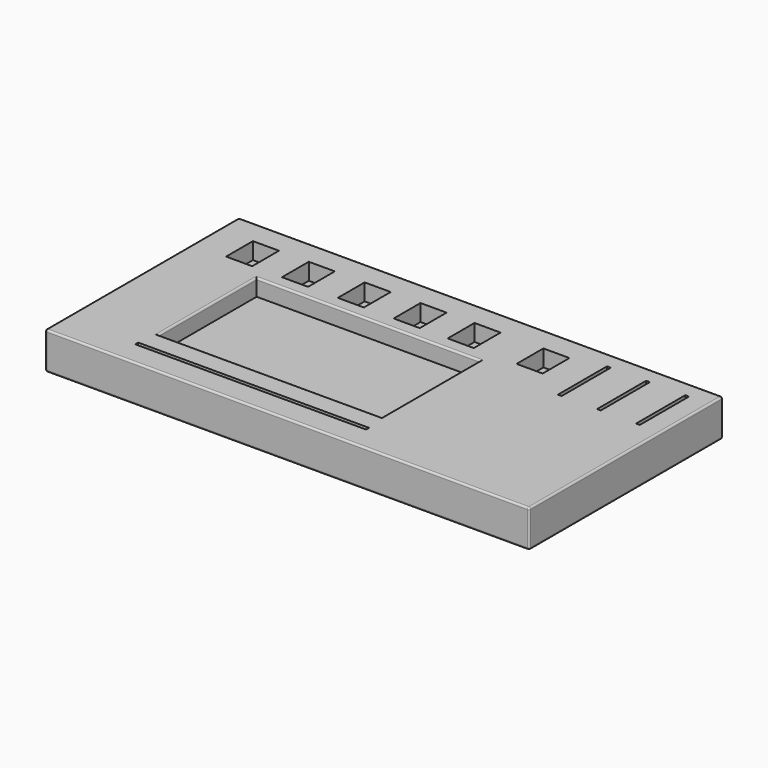
from build123d import *

# Parameters (mm, degrees)
BOX013_W               = 120
BOX013_H               = 66
BOX013_DEPTH           = 10
BOX002_W               = 14
BOX002_H               = 18
BOX002_DEPTH           = 10
BOX003_W               = 14
BOX003_H               = 18
BOX003_DEPTH           = 10
BOX004_W               = 14
BOX004_H               = 18
BOX004_DEPTH           = 10
BOX005_W               = 14
BOX005_H               = 18
BOX005_DEPTH           = 10
BOX006_W               = 33
BOX006_H               = 2
BOX006_DEPTH           = 10
BOX006_PLACEMENT_ANGLE = 90
BOX009_W               = 33
BOX009_H               = 2
BOX009_DEPTH           = 10
BOX009_PLACEMENT_ANGLE = 90
BOX010_W               = 33
BOX010_H               = 2
BOX010_DEPTH           = 10
BOX010_PLACEMENT_ANGLE = 90
BOX015_W               = 14
BOX015_H               = 18
BOX015_DEPTH           = 10
BOX022_W               = 14
BOX022_H               = 18
BOX022_DEPTH           = 10
BOX001_W               = 124
BOX001_H               = 2
BOX001_DEPTH           = 10
BOX_W                  = 260
BOX_H                  = 130
BOX_DEPTH              = 20
FILLET004_R            = 1
FILLET_R               = 1


with BuildPart() as cube003:
    # Box013 → Box013 (new body)
    with BuildSketch(Plane(origin=(-60, -48, -9), x_dir=(1, 0, 0), z_dir=(0, 0, 1))):
        with Locations((60, 33)):
            Rectangle(BOX013_W, BOX013_H)
    extrude(amount=BOX013_DEPTH)


with BuildPart() as obj1:
    # Box002 → Box002 (new body)
    with BuildSketch(Plane(origin=(8, 25, -9), x_dir=(1, 0, 0), z_dir=(0, 0, 1))):
        with Locations((7, 9)):
            Rectangle(BOX002_W, BOX002_H)
    extrude(amount=BOX002_DEPTH)


with BuildPart() as obj2:
    # Box003 → Box003 (new body)
    with BuildSketch(Plane(origin=(-22, 25, -9), x_dir=(1, 0, 0), z_dir=(0, 0, 1))):
        with Locations((7, 9)):
            Rectangle(BOX003_W, BOX003_H)
    extrude(amount=BOX003_DEPTH)


with BuildPart() as obj3:
    # Box004 → Box004 (new body)
    with BuildSketch(Plane(origin=(-52, 25, -9), x_dir=(1, 0, 0), z_dir=(0, 0, 1))):
        with Locations((7, 9)):
            Rectangle(BOX004_W, BOX004_H)
    extrude(amount=BOX004_DEPTH)


with BuildPart() as obj4:
    # Box005 → Box005 (new body)
    with BuildSketch(Plane(origin=(-82, 25, -9), x_dir=(1, 0, 0), z_dir=(0, 0, 1))):
        with Locations((7, 9)):
            Rectangle(BOX005_W, BOX005_H)
    extrude(amount=BOX005_DEPTH)


with BuildPart() as obj5:
    # Box006 → Box006 (new body)
    with BuildSketch(Plane.XY):
        with Locations((16.5, 1)):
            Rectangle(BOX006_W, BOX006_H)
    extrude(amount=BOX006_DEPTH)


with BuildPart() as obj5_1:
    # Box006 placement: moved
    add(obj5.part.moved(Location((107, 14, -9))).rotate(Axis((107, 14, -9), (0, 0, 1)), BOX006_PLACEMENT_ANGLE))


with BuildPart() as obj6:
    # Box009 → Box009 (new body)
    with BuildSketch(Plane.XY):
        with Locations((16.5, 1)):
            Rectangle(BOX009_W, BOX009_H)
    extrude(amount=BOX009_DEPTH)


with BuildPart() as obj6_1:
    # Box009 placement: moved
    add(obj6.part.moved(Location((128, 14, -9))).rotate(Axis((128, 14, -9), (0, 0, 1)), BOX009_PLACEMENT_ANGLE))


with BuildPart() as obj7:
    # Box010 → Box010 (new body)
    with BuildSketch(Plane.XY):
        with Locations((16.5, 1)):
            Rectangle(BOX010_W, BOX010_H)
    extrude(amount=BOX010_DEPTH)


with BuildPart() as obj7_1:
    # Box010 placement: moved
    add(obj7.part.moved(Location((149, 14, -9))).rotate(Axis((149, 14, -9), (0, 0, 1)), BOX010_PLACEMENT_ANGLE))


with BuildPart() as obj8:
    # Box015 → Box015 (new body)
    with BuildSketch(Plane(origin=(74, 25, -9), x_dir=(1, 0, 0), z_dir=(0, 0, 1))):
        with Locations((7, 9)):
            Rectangle(BOX015_W, BOX015_H)
    extrude(amount=BOX015_DEPTH)


with BuildPart() as obj9:
    # Box022 → Box022 (new body)
    with BuildSketch(Plane(origin=(37, 25, -9), x_dir=(1, 0, 0), z_dir=(0, 0, 1))):
        with Locations((7, 9)):
            Rectangle(BOX022_W, BOX022_H)
    extrude(amount=BOX022_DEPTH)


with BuildPart() as holes:
    # Box001 → Box001 (new body)
    with BuildSketch(Plane(origin=(-62, -61, -8), x_dir=(1, 0, 0), z_dir=(0, 0, 1))):
        with Locations((62, 1)):
            Rectangle(BOX001_W, BOX001_H)
    extrude(amount=BOX001_DEPTH)

    # Fusion: union obj1, obj2, obj3, obj4, obj5, obj6, obj7, obj8, obj9
    add(obj1.part)
    add(obj2.part)
    add(obj3.part)
    add(obj4.part)
    add(obj5_1.part)
    add(obj6_1.part)
    add(obj7_1.part)
    add(obj8.part)
    add(obj9.part)


with BuildPart() as box:
    # Box → Box (new body)
    with BuildSketch(Plane(origin=(-100, -74, -20.01), x_dir=(1, 0, 0), z_dir=(0, 0, 1))):
        with Locations((130, 65)):
            Rectangle(BOX_W, BOX_H)
    extrude(amount=BOX_DEPTH)

    # Fillet004
    fillet004_edges = [box.edges().sort_by_distance(p)[0] for p in [
        (-100, -74, -10.01),
        (-100, -9, -0.01),
        (-100, 56, -10.01),
        (-100, -9, -20.01),
        (160, -74, -10.01),
        (160, -9, -0.01),
        (160, 56, -10.01),
        (160, -9, -20.01),
        (30, -74, -20.01),
        (30, -74, -0.01),
        (30, 56, -20.01),
        (30, 56, -0.01),
    ]]
    fillet(fillet004_edges, radius=FILLET004_R)

    # Cut016: cut Holes
    add(holes.part, mode=Mode.SUBTRACT)

    # Cut: cut Cube003
    add(cube003.part, mode=Mode.SUBTRACT)

    # Fillet
    fillet_edges = [box.edges().sort_by_distance(p)[0] for p in [
        (0, -48, -0.01),
        (60, -15, -0.01),
        (0, 18, -0.01),
        (-60, -15, -0.01),
    ]]
    fillet(fillet_edges, radius=FILLET_R)


solid = box.part
